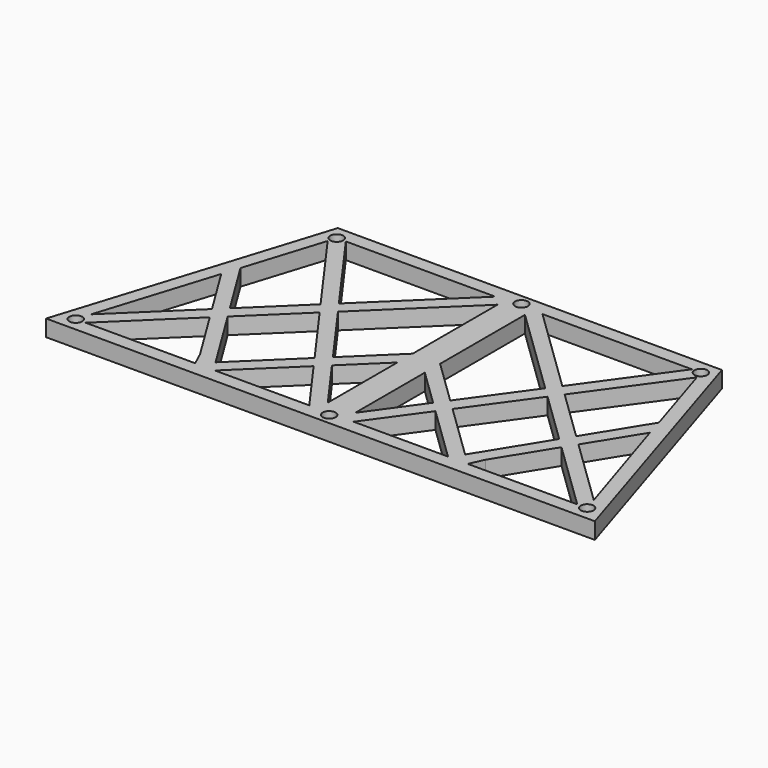
from build123d import *

# Parameters (mm, degrees)
F0_R     = 2.9845
F1_DEPTH = 7.62


with BuildPart() as f1:
    # F0 (on Top) → F1 (new body)
    with BuildSketch(Plane.XY):
        Polygon((-75.365749, 69.569385), (-113.465749, -51.580893), (13.534251, -51.580893), (140.534251, -51.580893), (102.434251, 69.569385), (13.534251, 69.569385), align=None)
        with Locations((-104.812158, -45.230893)):
            Circle(F0_R, mode=Mode.SUBTRACT)
        Polygon((-49.541476, -45.230893), (-100.24803, -45.230893), (-67.861694, -13.870002), (-52.485536, -38.758501), align=None, mode=Mode.SUBTRACT)
        Polygon((3.274268, -45.230893), (-40.41322, -45.230893), (-14.65364, -20.286936), align=None, mode=Mode.SUBTRACT)
        Polygon((-102.813653, -38.876052), (-85.852937, 15.055587), (-85.702804, 15.008373), (-71.278508, -8.339402), align=None, mode=Mode.SUBTRACT)
        Polygon((-63.202862, -9.358682), (-39.207877, 13.876552), (-18.399576, -15.075035), (-43.330528, -39.216602), (-44.222796, -40.080618), align=None, mode=Mode.SUBTRACT)
        Polygon((7.184251, 0.859504), (7.184251, -39.402304), (-9.878115, -15.662617), align=None, mode=Mode.SUBTRACT)
        with Locations((13.534251, -46.55671)):
            Circle(F0_R, mode=Mode.SUBTRACT)
        Polygon((23.794234, -45.230893), (41.722141, -20.286936), (67.481722, -45.230893), align=None, mode=Mode.SUBTRACT)
        with Locations((131.88066, -45.230893)):
            Circle(F0_R, mode=Mode.SUBTRACT)
        Polygon((127.316531, -45.230893), (76.609978, -45.230893), (79.554038, -38.758501), (94.930195, -13.870002), align=None, mode=Mode.SUBTRACT)
        Polygon((19.884251, -39.402304), (19.884251, 0.859504), (36.946616, -15.662617), align=None, mode=Mode.SUBTRACT)
        Polygon((45.468077, -15.075035), (66.276379, 13.876552), (90.271363, -9.358682), (71.291298, -40.080618), (70.39903, -39.216602), align=None, mode=Mode.SUBTRACT)
        Polygon((98.34701, -8.339402), (112.771306, 15.008373), (129.882154, -38.876052), align=None, mode=Mode.SUBTRACT)
        Polygon((-83.30042, 23.172075), (-71.91322, 59.381063), (-42.953813, 19.088452), (-66.619676, -3.828081), align=None, mode=Mode.SUBTRACT)
        Polygon((-34.432352, 18.50087), (7.184251, 58.799771), (7.184251, 9.698733), (-13.624051, -10.450717), align=None, mode=Mode.SUBTRACT)
        with Locations((-70.761945, 63.219385)):
            Circle(F0_R, mode=Mode.SUBTRACT)
        Polygon((-66.572778, 63.219385), (2.620123, 63.219385), (-38.178288, 23.71277), align=None, mode=Mode.SUBTRACT)
        Polygon((19.884251, 9.698733), (19.884251, 58.799771), (61.500854, 18.50087), (40.692552, -10.450717), align=None, mode=Mode.SUBTRACT)
        Polygon((70.022315, 19.088452), (98.981721, 59.381063), (110.368921, 23.172075), (93.688178, -3.828081), align=None, mode=Mode.SUBTRACT)
        Polygon((65.246789, 23.71277), (24.448379, 63.219385), (93.641279, 63.219385), align=None, mode=Mode.SUBTRACT)
        with Locations((13.534251, 64.711635)):
            Circle(F0_R, mode=Mode.SUBTRACT)
        with Locations((97.774625, 63.219385)):
            Circle(F0_R, mode=Mode.SUBTRACT)
    extrude(amount=F1_DEPTH)


solid = f1.part
